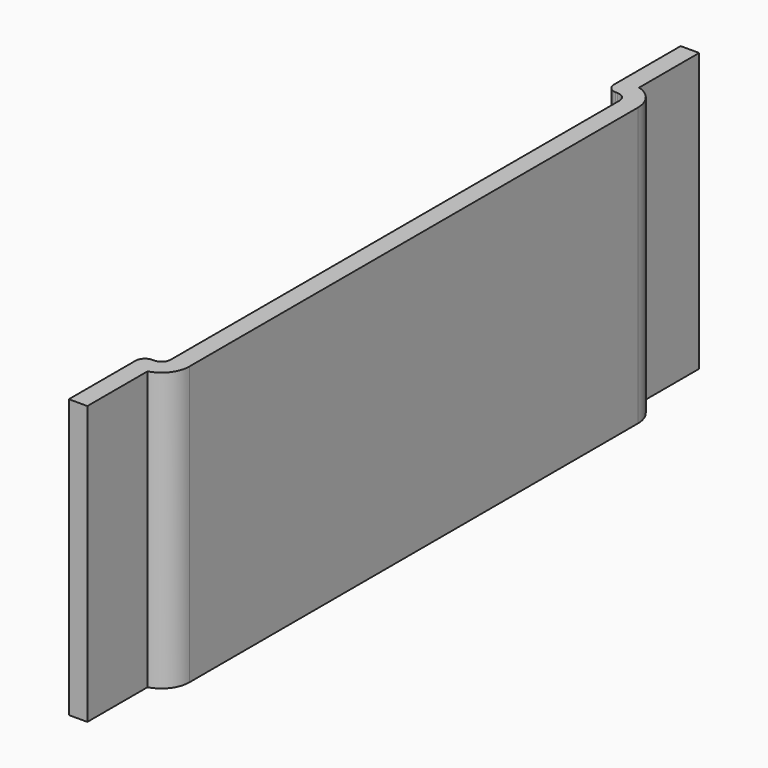
from build123d import *

# Parameters (mm, degrees)
F1_DEPTH = 38.1


with BuildPart() as f1:
    # F0 (on Top) → F1 (new body)
    with BuildSketch(Plane.XY):
        with BuildLine():
            ThreePointArc((1.27, -39.6875), (0.371974, -40.059474), (0, -40.9575))
            Line((0, -40.9575), (0, -52.3875))
            Line((0, -52.3875), (2.54, -52.3875))
            Line((2.54, -52.3875), (2.54, -42.089535))
            ThreePointArc((2.54, -42.089535), (4.556083, -40.72457), (5.334, -38.4175))
            Line((5.334, -38.4175), (5.334, 0))
            Line((5.334, 0), (5.334, 38.4175))
            ThreePointArc((5.334, 38.4175), (4.556083, 40.72457), (2.54, 42.089535))
            Line((2.54, 42.089535), (2.54, 52.3875))
            Line((2.54, 52.3875), (0, 52.3875))
            Line((0, 52.3875), (0, 40.9575))
            ThreePointArc((0, 40.9575), (0.371974, 40.059474), (1.27, 39.6875))
            Line((1.27, 39.6875), (1.524, 39.6875))
            ThreePointArc((1.524, 39.6875), (2.422026, 39.315526), (2.794, 38.4175))
            Line((2.794, 38.4175), (2.794, 0))
            Line((2.794, 0), (2.794, -38.4175))
            ThreePointArc((2.794, -38.4175), (2.422026, -39.315526), (1.524, -39.6875))
            Line((1.524, -39.6875), (1.27, -39.6875))
        make_face()
    extrude(amount=F1_DEPTH)


solid = f1.part
